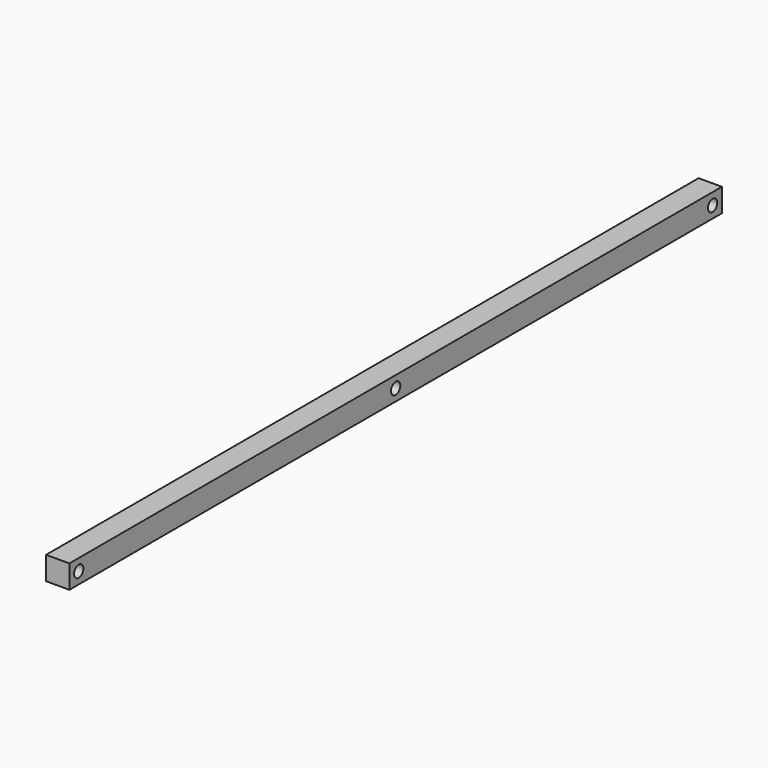
from build123d import *

# Parameters (mm, degrees)
F0_W     = 25.4
F0_H     = 25.4
F1_DEPTH = 444.5
F2_R     = 6.35
F3_DEPTH = 25.401
F4_R     = 6.35
F5_DEPTH = 25.401


with BuildPart() as f1:
    # F0 (on Front) → F1 (new body, symmetric)
    with BuildSketch(Plane.XZ):
        Rectangle(F0_W, F0_H)
    extrude(amount=F1_DEPTH, both=True)

    # F2 (on face) → F3 (cut, through all)
    with BuildSketch(Plane.YZ.offset(12.7)):
        with Locations((-431.8, 0)):
            Circle(F2_R)
        with Locations((431.8, 0)):
            Circle(F2_R)
    extrude(amount=-F3_DEPTH, mode=Mode.SUBTRACT)

    # F4 (on face) → F5 (cut, through all)
    with BuildSketch(Plane.YZ.offset(12.7)):
        Circle(F4_R)
    extrude(amount=-F5_DEPTH, mode=Mode.SUBTRACT)


solid = f1.part
